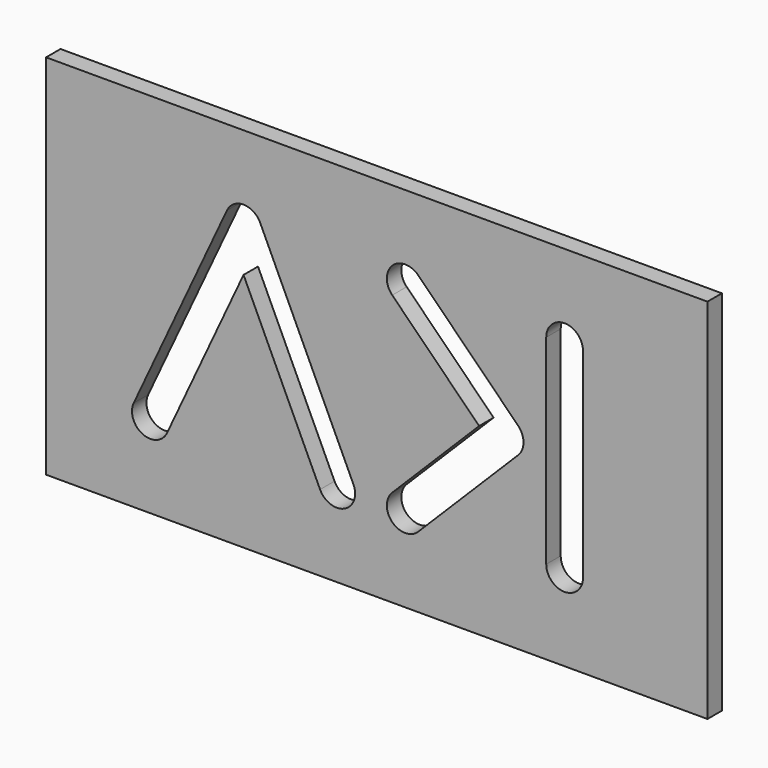
from build123d import *

# Parameters (mm, degrees)
F0_W     = 114.3
F0_H     = 63.5
F1_DEPTH = 3.1242


with BuildPart() as f1:
    # F0 (on Front) → F1 (new body)
    with BuildSketch(Plane.XZ):
        with Locations((39.126127, 17.265163)):
            Rectangle(F0_W, F0_H)
        with BuildLine():
            ThreePointArc((46.28682, -2.245064), (41.796692, -2.245064), (41.796692, 2.245064))
            Line((41.796692, 2.245064), (56.816791, 17.265163))
            Line((56.816791, 17.265163), (41.796692, 32.285263))
            ThreePointArc((41.796692, 32.285263), (41.796692, 36.775391), (46.28682, 36.775391))
            Line((46.28682, 36.775391), (63.551983, 19.510227))
            ThreePointArc((63.551983, 19.510227), (64.481919, 17.265163), (63.551983, 15.020099))
            Line((63.551983, 15.020099), (46.28682, -2.245064))
        make_face(mode=Mode.SUBTRACT)
        with BuildLine():
            ThreePointArc((74.762899, 0), (71.587899, -3.175), (68.412899, 0))
            Line((68.412899, 0), (68.412899, 17.265163))
            Line((68.412899, 17.265163), (68.412899, 34.530327))
            ThreePointArc((68.412899, 34.530327), (71.587899, 37.705327), (74.762899, 34.530327))
            Line((74.762899, 34.530327), (74.762899, 17.265163))
            Line((74.762899, 17.265163), (74.762899, 0))
        make_face(mode=Mode.SUBTRACT)
        with BuildLine():
            ThreePointArc((2.877527, -1.341813), (-1.341813, -2.877527), (-2.877527, 1.341813))
            Line((-2.877527, 1.341813), (13.224229, 35.87214))
            ThreePointArc((13.224229, 35.87214), (16.101756, 37.705327), (18.979283, 35.87214))
            Line((18.979283, 35.87214), (35.081039, 1.341813))
            ThreePointArc((35.081039, 1.341813), (33.545325, -2.877527), (29.325984, -1.341813))
            Line((29.325984, -1.341813), (16.101756, 27.017637))
            Line((16.101756, 27.017637), (2.877527, -1.341813))
        make_face(mode=Mode.SUBTRACT)
    extrude(amount=F1_DEPTH)


solid = f1.part
